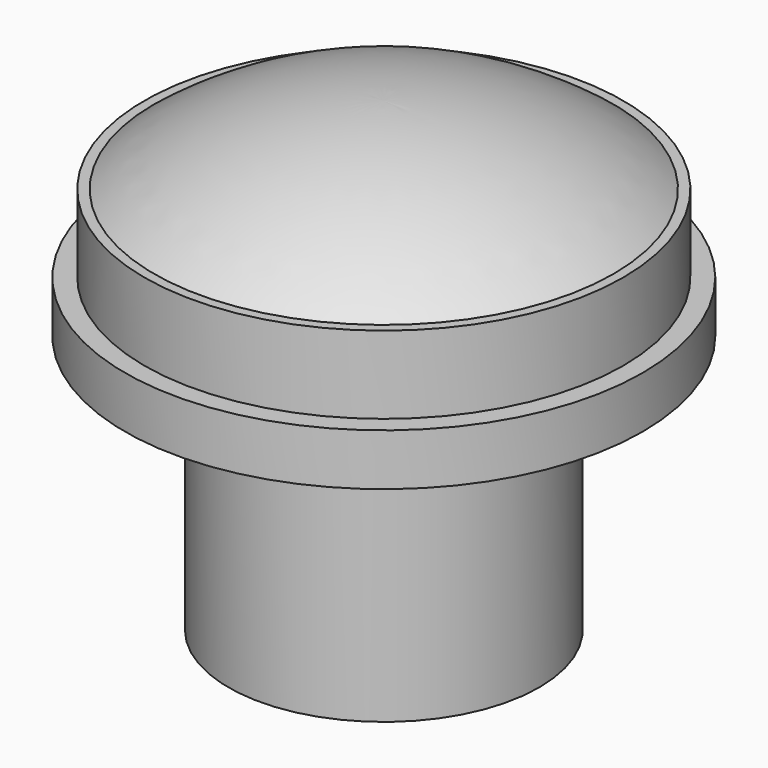
from build123d import *

# Parameters (mm, degrees)
SKETCH070_R       = 6
PAD046_DEPTH      = 10
SKETCH071_R       = 10
PAD047_DEPTH      = 2
SKETCH072_R       = 9.25
PAD048_DEPTH      = 3
SKETCH073_R       = 8.875
POCKET068_DEPTH   = 0.2
POCKET068_FACE9_R = 8.875
PAD049_DEPTH      = 3.2


with BuildPart() as part:
    # Sketch070 → Pad046 (new body)
    with BuildSketch(Plane.XY):
        Circle(SKETCH070_R)
    extrude(amount=PAD046_DEPTH)

    # Sketch071 (on Face3 of Pad046) → Pad047 (join)
    with BuildSketch(Plane.XY.offset(10)):
        Circle(SKETCH071_R)
    extrude(amount=PAD047_DEPTH)

    # Sketch072 (on Face3 of Pad047) → Pad048 (join)
    with BuildSketch(Plane.XY.offset(12)):
        Circle(SKETCH072_R)
    extrude(amount=PAD048_DEPTH)

    # Sketch073 (on Face7 of Pad048) → Pocket068 (cut)
    with BuildSketch(Plane.XY.offset(15)):
        Circle(SKETCH073_R)
    extrude(amount=-POCKET068_DEPTH, mode=Mode.SUBTRACT)

    # Pocket068 Face9 → Pad049 (add)
    with BuildSketch(Plane(origin=(0, 0, 14.8), x_dir=(0, 1, 0), z_dir=(0, 0, 1))):
        Circle(POCKET068_FACE9_R)
    extrude(amount=PAD049_DEPTH)

    # Sketch074 → Groove (revolve, cut)
    with BuildSketch(Plane.XZ):
        with BuildLine():
            ThreePointArc((8.875, 15), (4.684658, 17.231174), (0, 18))
            Line((0, 19), (0, 18))
            Line((0, 19), (8.875, 19))
            Line((8.875, 19), (8.875, 15))
        make_face()
    revolve(axis=Axis((0, 0, 0), (0, 0, 1)), mode=Mode.SUBTRACT)


with BuildPart() as part_1:
    # Body006 placement: moved
    add(part.part.moved(Location((-0.09, 20.45, -3.6))))


solid = part_1.part
